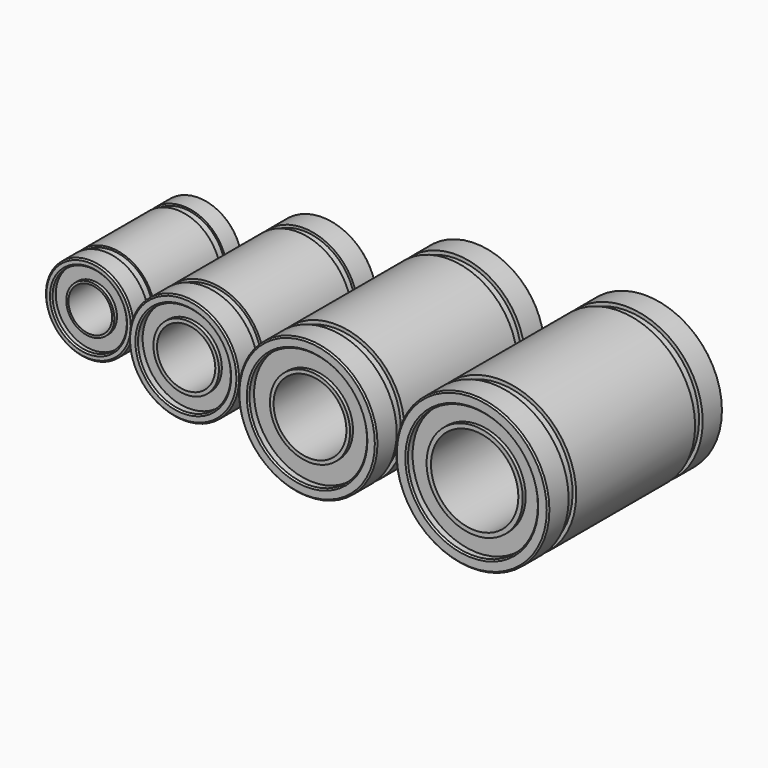
from build123d import *

# Parameters (mm, degrees)
F0_R      = 6
F0_R_2    = 5.1
F1_DEPTH  = 9.5
F0_R_3    = 3.3
F2_DEPTH  = 8.75
F0_R_4    = 3
F3_DEPTH  = 9.2
F5_W      = 1.1
F5_H      = 1
F7_SIZE   = 0.2
F0_R_5    = 7.5
F0_R_6    = 6.375
F8_DEPTH  = 12
F0_R_7    = 4.5
F9_DEPTH  = 11
F0_R_8    = 4
F10_DEPTH = 11.5
F11_W     = 1.1
F11_H     = 0.85
F13_SIZE  = 0.2
F0_R_9    = 9.5
F0_R_10   = 8.075
F14_DEPTH = 14.5
F0_R_11   = 5.5
F15_DEPTH = 13.5
F0_R_12   = 5
F16_DEPTH = 14
F18_W     = 1.3
F18_H     = 1
F20_SIZE  = 0.2
F0_R_13   = 10.5
F0_R_14   = 8.925
F21_DEPTH = 15
F0_R_15   = 6.6
F22_DEPTH = 14
F23_DEPTH = 14.5
F25_W     = 1.3
F25_H     = 1
F27_SIZE  = 0.2


with BuildPart() as f1:
    # F0 (on Front) → F1 (new body, symmetric)
    with BuildSketch(Plane.XZ):
        with Locations((-15, 0)):
            Circle(F0_R)
        with Locations((-15, 0)):
            Circle(F0_R_2, mode=Mode.SUBTRACT)
    extrude(amount=F1_DEPTH, both=True)

    # F5 (on plane+point) → F6 (revolve, cut)
    with BuildSketch(Plane.YZ.offset(-15)):
        with Locations((6.2, 6.25)):
            Rectangle(F5_W, F5_H)
        with Locations((-6.2, 6.25)):
            Rectangle(F5_W, F5_H)
    revolve(axis=Axis((-15, 0, 0), (0, 1, 0)), mode=Mode.SUBTRACT)

    # F7
    f7_edges = [f1.edges().sort_by_distance(p)[0] for p in [
        (-21, -9.5, 0),
        (-20.1, -9.5, 0),
        (-21, 9.5, 0),
        (-20.1, 9.5, 0),
    ]]
    chamfer(f7_edges, length=F7_SIZE)


with BuildPart() as f2:
    # F0 (on Front) → F2 (new body, symmetric)
    with BuildSketch(Plane.XZ):
        with Locations((-15, 0)):
            Circle(F0_R_2)
        with Locations((-15, 0)):
            Circle(F0_R_3, mode=Mode.SUBTRACT)
    extrude(amount=F2_DEPTH, both=True)

    # F0 (on Front) → F3 (join, symmetric)
    with BuildSketch(Plane.XZ):
        with Locations((-15, 0)):
            Circle(F0_R_3)
        with Locations((-15, 0)):
            Circle(F0_R_4, mode=Mode.SUBTRACT)
    extrude(amount=F3_DEPTH, both=True)


with BuildPart() as f8:
    # F0 (on Front) → F8 (new body, symmetric)
    with BuildSketch(Plane.XZ):
        Circle(F0_R_5)
        Circle(F0_R_6, mode=Mode.SUBTRACT)
    extrude(amount=F8_DEPTH, both=True)

    # F11 (on Right) → F12 (revolve, cut)
    with BuildSketch(Plane.YZ):
        with Locations((-8.05, 7.575)):
            Rectangle(F11_W, F11_H)
        with Locations((8.05, 7.575)):
            Rectangle(F11_W, F11_H)
    revolve(axis=Axis((0, 0, 0), (0, 1, 0)), mode=Mode.SUBTRACT)

    # F13
    f13_edges = [f8.edges().sort_by_distance(p)[0] for p in [
        (-7.5, -12, 0),
        (-6.375, -12, 0),
        (-7.5, 12, 0),
        (-6.375, 12, 0),
    ]]
    chamfer(f13_edges, length=F13_SIZE)


with BuildPart() as f9:
    # F0 (on Front) → F9 (new body, symmetric)
    with BuildSketch(Plane.XZ):
        Circle(F0_R_6)
        Circle(F0_R_7, mode=Mode.SUBTRACT)
    extrude(amount=F9_DEPTH, both=True)

    # F0 (on Front) → F10 (join, symmetric)
    with BuildSketch(Plane.XZ):
        Circle(F0_R_7)
        Circle(F0_R_8, mode=Mode.SUBTRACT)
    extrude(amount=F10_DEPTH, both=True)


with BuildPart() as f14:
    # F0 (on Front) → F14 (new body, symmetric)
    with BuildSketch(Plane.XZ):
        with Locations((19, 0)):
            Circle(F0_R_9)
        with Locations((19, 0)):
            Circle(F0_R_10, mode=Mode.SUBTRACT)
    extrude(amount=F14_DEPTH, both=True)

    # F18 (on plane+point) → F19 (revolve, cut)
    with BuildSketch(Plane.YZ.offset(19)):
        with Locations((10.35, 9.5)):
            Rectangle(F18_W, F18_H)
        with Locations((-10.35, 9.5)):
            Rectangle(F18_W, F18_H)
    revolve(axis=Axis((19, -2.1407643095, 0), (0, -1, 0)), mode=Mode.SUBTRACT)

    # F20
    f20_edges = [f14.edges().sort_by_distance(p)[0] for p in [
        (9.5, -14.5, 0),
        (10.925, -14.5, 0),
        (9.5, 14.5, 0),
        (10.925, 14.5, 0),
    ]]
    chamfer(f20_edges, length=F20_SIZE)


with BuildPart() as f15:
    # F0 (on Front) → F15 (new body, symmetric)
    with BuildSketch(Plane.XZ):
        with Locations((19, 0)):
            Circle(F0_R_10)
        with Locations((19, 0)):
            Circle(F0_R_11, mode=Mode.SUBTRACT)
    extrude(amount=F15_DEPTH, both=True)

    # F0 (on Front) → F16 (join, symmetric)
    with BuildSketch(Plane.XZ):
        with Locations((19, 0)):
            Circle(F0_R_11)
        with Locations((19, 0)):
            Circle(F0_R_12, mode=Mode.SUBTRACT)
    extrude(amount=F16_DEPTH, both=True)


with BuildPart() as f21:
    # F0 (on Front) → F21 (new body, symmetric)
    with BuildSketch(Plane.XZ):
        with Locations((42, 0)):
            Circle(F0_R_13)
        with Locations((42, 0)):
            Circle(F0_R_14, mode=Mode.SUBTRACT)
    extrude(amount=F21_DEPTH, both=True)

    # F25 (on plane+point) → F26 (revolve, cut)
    with BuildSketch(Plane.YZ.offset(42)):
        with Locations((-10.85, 10.5)):
            Rectangle(F25_W, F25_H)
        with Locations((10.85, 10.5)):
            Rectangle(F25_W, F25_H)
    revolve(axis=Axis((42, 0.3836191615, 0), (0, 1, 0)), mode=Mode.SUBTRACT)

    # F27
    f27_edges = [f21.edges().sort_by_distance(p)[0] for p in [
        (31.5, 15, 0),
        (33.075, 15, 0),
        (31.5, -15, 0),
        (33.075, -15, 0),
    ]]
    chamfer(f27_edges, length=F27_SIZE)


with BuildPart() as f22:
    # F0 (on Front) → F22 (new body, symmetric)
    with BuildSketch(Plane.XZ):
        with Locations((42, 0)):
            Circle(F0_R_14)
        with Locations((42, 0)):
            Circle(F0_R_15, mode=Mode.SUBTRACT)
    extrude(amount=F22_DEPTH, both=True)

    # F0 (on Front) → F23 (join, symmetric)
    with BuildSketch(Plane.XZ):
        with Locations((42, 0)):
            Circle(F0_R_15)
        with Locations((42, 0)):
            Circle(F0_R, mode=Mode.SUBTRACT)
    extrude(amount=F23_DEPTH, both=True)


solid = Compound([f1.part, f2.part, f8.part, f9.part, f14.part, f15.part, f21.part, f22.part])
